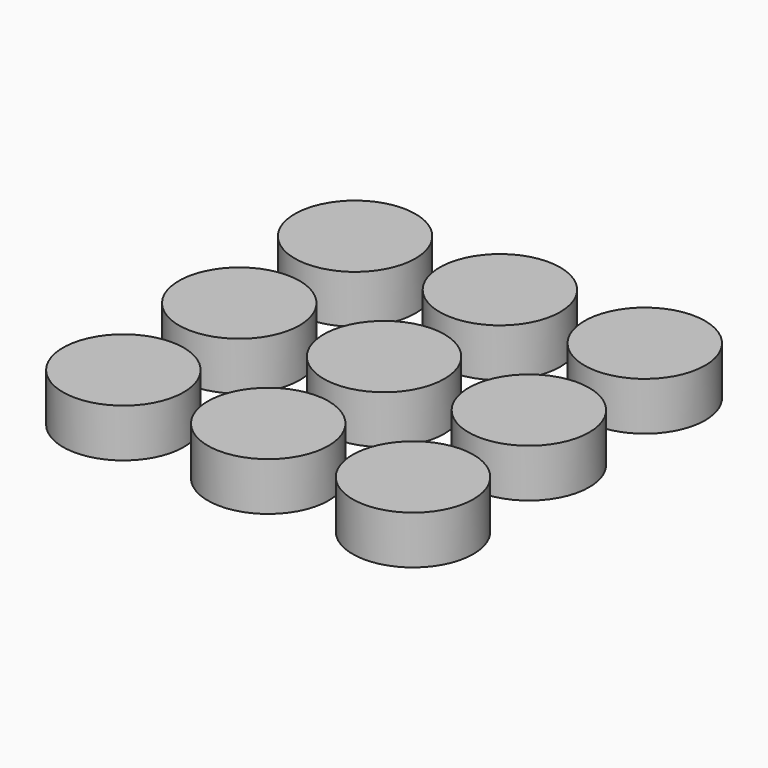
from build123d import *

# Parameters (mm, degrees)
F0_R     = 12.5
F1_DEPTH = 10


with BuildPart() as f1:
    # F0 (on Top) → F1 (new body)
    with BuildSketch(Plane.XY):
        with Locations((-30, -30)):
            Circle(F0_R)
        with Locations((-30, 0)):
            Circle(F0_R)
        with Locations((-30, 30)):
            Circle(F0_R)
        with Locations((0, 30)):
            Circle(F0_R)
        Circle(F0_R)
        with Locations((0, -30)):
            Circle(F0_R)
        with Locations((30, -30)):
            Circle(F0_R)
        with Locations((30, 0)):
            Circle(F0_R)
        with Locations((30, 30)):
            Circle(F0_R)
    extrude(amount=F1_DEPTH)


solid = f1.part
